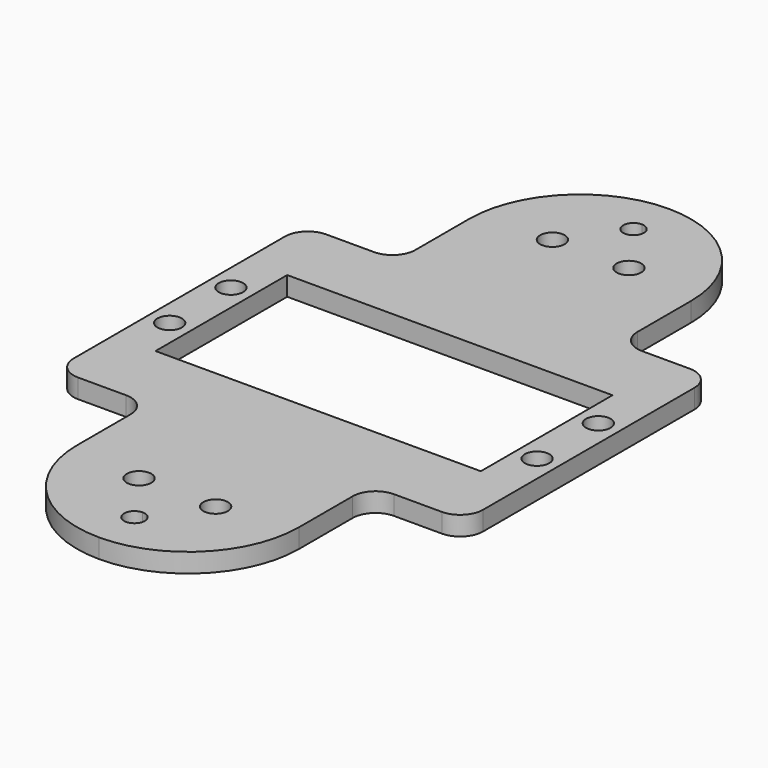
from build123d import *

# Parameters (mm, degrees)
F0_R     = 1.6
F1_DEPTH = 2.5


with BuildPart() as f1:
    # F0 (on Top) → F1 (new body)
    with BuildSketch(Plane.XY):
        with BuildLine():
            Line((0, 17.25), (0, 0))
            Line((0, 0), (5.5, 0))
            Line((5.5, 0), (5.5, 10.75))
            Line((5.5, 10.75), (26.75, 10.75))
            Line((26.75, 10.75), (26.75, 32))
            Line((26.75, 32), (12.25, 32))
            Line((12.25, 32), (12.25, 23.25))
            ThreePointArc((12.25, 23.25), (11.37132, 21.12868), (9.25, 20.25))
            Line((9.25, 20.25), (3, 20.25))
            ThreePointArc((3, 20.25), (0.87868, 19.37132), (0, 17.25))
        make_face()
        with Locations((2.75, 5)):
            Circle(F0_R, mode=Mode.SUBTRACT)
        with BuildLine():
            Line((5.5, 0), (0, 0))
            Line((0, 0), (0, -17.25))
            ThreePointArc((0, -17.25), (0.87868, -19.37132), (3, -20.25))
            Line((3, -20.25), (9.25, -20.25))
            ThreePointArc((9.25, -20.25), (11.37132, -21.12868), (12.25, -23.25))
            Line((12.25, -23.25), (12.25, -32))
            Line((12.25, -32), (26.75, -32))
            Line((26.75, -32), (26.75, -10.75))
            Line((26.75, -10.75), (5.5, -10.75))
            Line((5.5, -10.75), (5.5, 0))
        make_face()
        with Locations((2.75, -5)):
            Circle(F0_R, mode=Mode.SUBTRACT)
        with BuildLine():
            Line((48, 10.75), (48, 0))
            Line((48, 0), (53.5, 0))
            Line((53.5, 0), (53.5, 17.25))
            ThreePointArc((53.5, 17.25), (52.62132, 19.37132), (50.5, 20.25))
            Line((50.5, 20.25), (44.25, 20.25))
            ThreePointArc((44.25, 20.25), (42.12868, 21.12868), (41.25, 23.25))
            Line((41.25, 23.25), (41.25, 32))
            Line((41.25, 32), (26.75, 32))
            Line((26.75, 32), (26.75, 10.75))
            Line((26.75, 10.75), (48, 10.75))
        make_face()
        with Locations((50.75, 5)):
            Circle(F0_R, mode=Mode.SUBTRACT)
        with BuildLine():
            Line((53.5, 0), (48, 0))
            Line((48, 0), (48, -10.75))
            Line((48, -10.75), (26.75, -10.75))
            Line((26.75, -10.75), (26.75, -32))
            Line((26.75, -32), (41.25, -32))
            Line((41.25, -32), (41.25, -23.25))
            ThreePointArc((41.25, -23.25), (42.12868, -21.12868), (44.25, -20.25))
            Line((44.25, -20.25), (50.5, -20.25))
            ThreePointArc((50.5, -20.25), (52.62132, -19.37132), (53.5, -17.25))
            Line((53.5, -17.25), (53.5, 0))
        make_face()
        with Locations((50.75, -5)):
            Circle(F0_R, mode=Mode.SUBTRACT)
        with BuildLine():
            Line((41.25, -32), (26.75, -32))
            Line((26.75, -32), (26.75, -39.4))
            ThreePointArc((26.75, -39.4), (27.704594, -39.795406), (28.1, -40.75))
            ThreePointArc((28.1, -40.75), (27.704594, -41.704594), (26.75, -42.1))
            Line((26.75, -42.1), (26.75, -46.5))
            ThreePointArc((26.75, -46.5), (37.003048, -42.253048), (41.25, -32))
        make_face()
        with Locations((31.75, -33.75)):
            Circle(F0_R, mode=Mode.SUBTRACT)
        with BuildLine():
            Line((26.75, -39.4), (26.75, -32))
            Line((26.75, -32), (12.25, -32))
            ThreePointArc((12.25, -32), (16.496952, -42.253048), (26.75, -46.5))
            Line((26.75, -46.5), (26.75, -42.1))
            ThreePointArc((26.75, -42.1), (25.4, -40.75), (26.75, -39.4))
        make_face()
        with Locations((21.75, -33.75)):
            Circle(F0_R, mode=Mode.SUBTRACT)
        with BuildLine():
            Line((12.25, 32), (26.75, 32))
            Line((26.75, 32), (26.75, 39.4))
            ThreePointArc((26.75, 39.4), (25.4, 40.75), (26.75, 42.1))
            Line((26.75, 42.1), (26.75, 46.5))
            ThreePointArc((26.75, 46.5), (16.496952, 42.253048), (12.25, 32))
        make_face()
        with Locations((21.75, 33.75)):
            Circle(F0_R, mode=Mode.SUBTRACT)
        with BuildLine():
            Line((26.75, 39.4), (26.75, 32))
            Line((26.75, 32), (41.25, 32))
            ThreePointArc((41.25, 32), (37.003048, 42.253048), (26.75, 46.5))
            Line((26.75, 46.5), (26.75, 42.1))
            ThreePointArc((26.75, 42.1), (27.704594, 41.704594), (28.1, 40.75))
            ThreePointArc((28.1, 40.75), (27.704594, 39.795406), (26.75, 39.4))
        make_face()
        with Locations((31.75, 33.75)):
            Circle(F0_R, mode=Mode.SUBTRACT)
    extrude(amount=F1_DEPTH)


solid = f1.part
